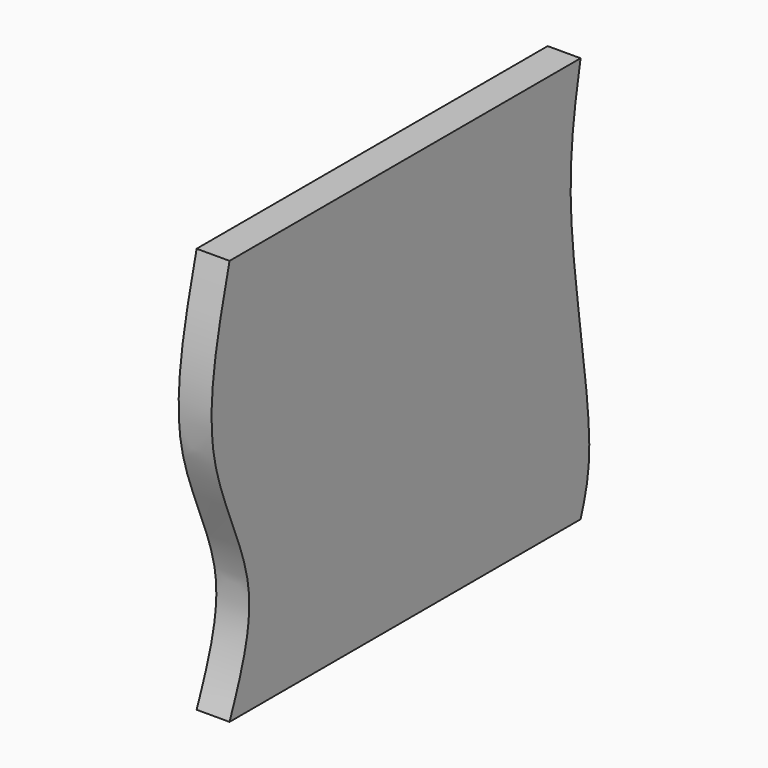
from build123d import *

# Parameters (mm, degrees)
F1_DEPTH = 30.48


with BuildPart() as f1:
    # F0 (on Right) → F1 (new body)
    with BuildSketch(Plane.YZ):
        with BuildLine():
            Line((406.4, 0), (0, 0))
            add(Edge.make_bspline(
                [(0, 0), (-13.4018838933, -52.0801176529), (-39.1414364246, -152.1047809645), (41.0980607754, -273.0300876742), (13.1542561647, -342.9880261316), (0, -375.92)],
                knots=[0, 0, 0, 0, 0.3650442906, 0.7011011861, 1, 1, 1, 1], degree=3))
            Line((0, -375.92), (406.4, -375.92))
            add(Edge.make_bspline(
                [(406.4, 0), (399.7001477707, -35.9079734404), (384.4370558729, -117.7107774014), (425.9684487535, -317.5840965757), (411.4533128378, -360.8554655858), (406.4, -375.92)],
                knots=[0, 0, 0, 0, 0.3377538372, 0.7694450086, 1, 1, 1, 1], degree=3))
        make_face()
    extrude(amount=F1_DEPTH)


solid = f1.part
